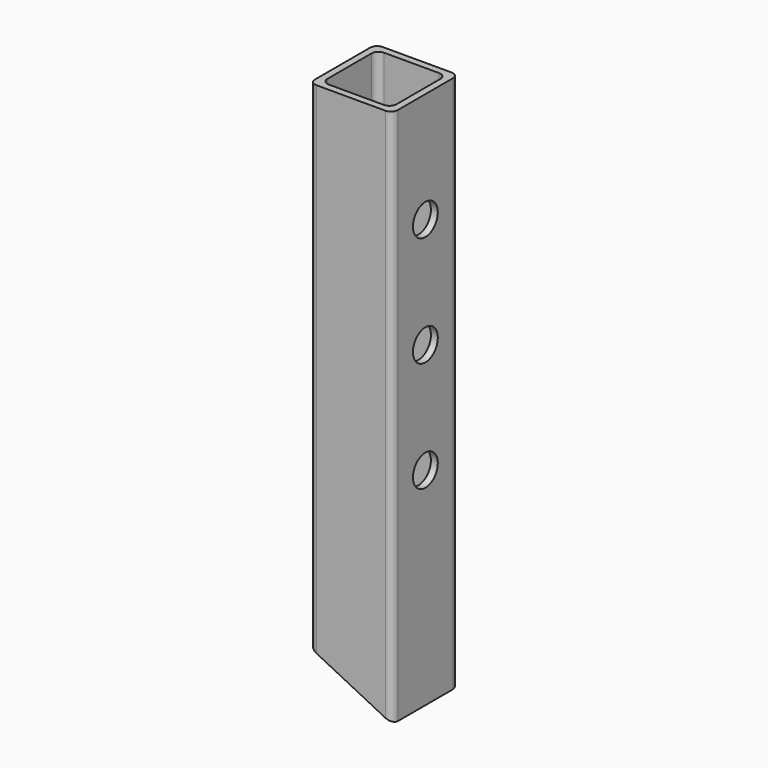
from build123d import *

# Parameters (mm, degrees)
F0_W     = 38.1
F0_H     = 38.1
F1_DEPTH = 123.825
F2_T     = -3.175
F3_R     = 7.14375
F4_DEPTH = 38.101
F6_DEPTH = 38.101
F7_R     = 3.175


with BuildPart() as f1:
    # F0 (on Top) → F1 (new body, symmetric)
    with BuildSketch(Plane.XY):
        Rectangle(F0_W, F0_H)
    extrude(amount=F1_DEPTH, both=True)

    # F2
    f2_openings = [f1.faces().sort_by_distance(p)[0] for p in [
        (0, 0, 123.825),
        (0, 0, -123.825),
    ]]
    offset(amount=F2_T, openings=f2_openings)

    # F3 (on face) → F4 (cut, through all)
    with BuildSketch(Plane.YZ.offset(19.05)):
        with Locations((0, 73.025)):
            Circle(F3_R)
        with Locations((0, 22.225)):
            Circle(F3_R)
        with Locations((0, -28.575)):
            Circle(F3_R)
    extrude(amount=-F4_DEPTH, mode=Mode.SUBTRACT)

    # F5 (on face) → F6 (cut, through all)
    with BuildSketch(Plane.XZ.offset(19.05)):
        Polygon((-19.05, -123.825), (19.05, -123.825), (-19.05, -104.7708862961), align=None)
    extrude(amount=-F6_DEPTH, mode=Mode.SUBTRACT)

    # F7
    f7_edges = [f1.edges().sort_by_distance(p)[0] for p in [
        (-19.05, -19.05, 9.527057),
        (19.05, 19.05, 0),
        (19.05, -19.05, 0),
        (-19.05, 19.05, 9.527057),
        (-15.875, -15.875, 8.733135),
        (-15.875, 15.875, 8.733135),
        (15.875, 15.875, 0.793921),
        (15.875, -15.875, 0.793921),
    ]]
    fillet(f7_edges, radius=F7_R)


solid = f1.part
